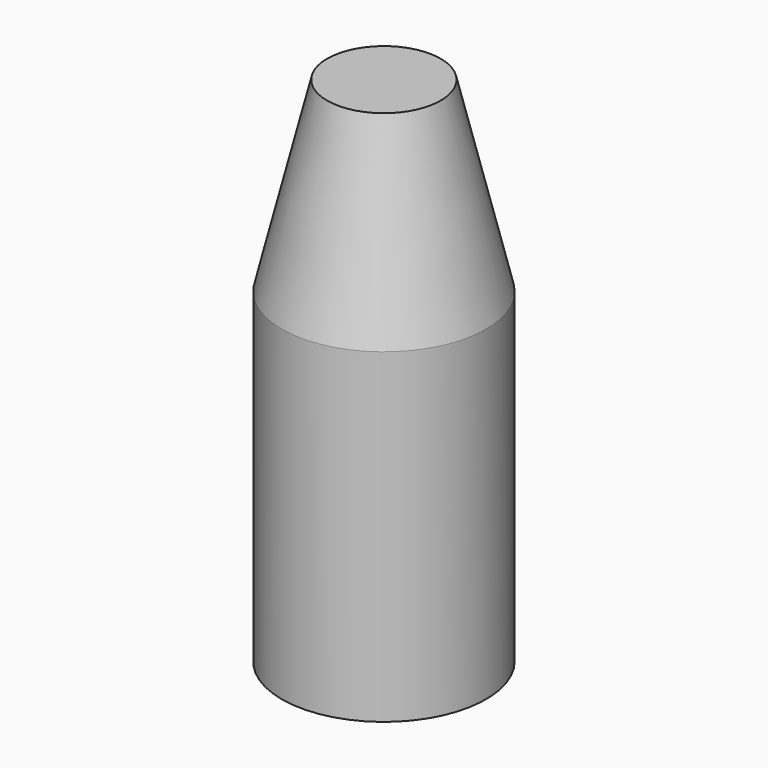
from build123d import *

# Parameters (mm, degrees)
F0_W = 22.489846
F0_H = 71.738795


with BuildPart() as f1:
    # F0 (on Front) → F1 (revolve)
    with BuildSketch(Plane.XZ):
        with Locations((-11.244923, -35.869397)):
            Rectangle(F0_W, F0_H)
        Polygon((-22.489846, 0), (0, 0), (0, 41.053519), (-12.501563, 41.053519), align=None)
    revolve(axis=Axis((0, 0, -12.420908), (0, 0, -1)))


solid = f1.part
